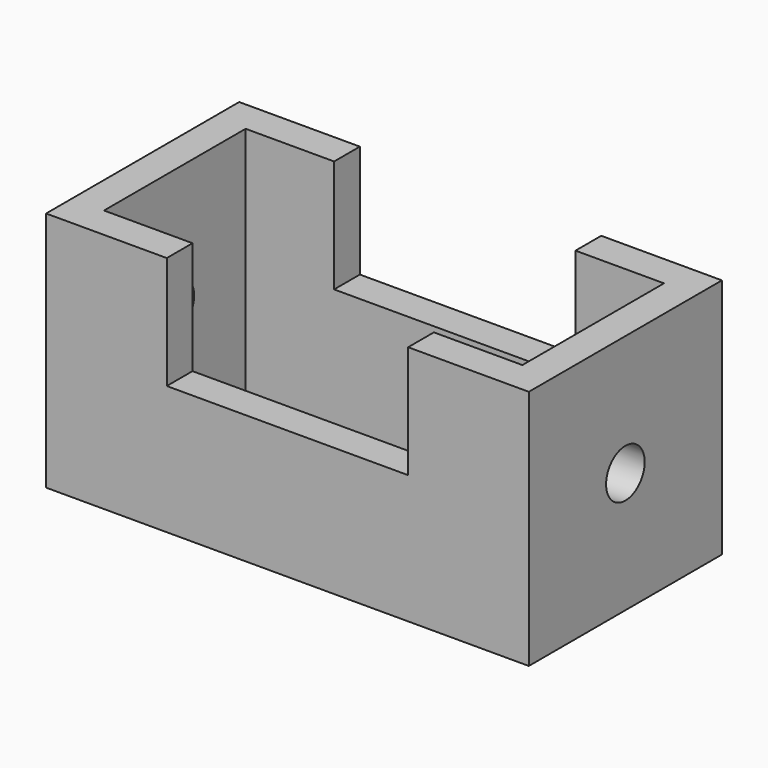
from build123d import *

# Parameters (mm, degrees)
F0_W     = 762
F0_H     = 381
F0_W_2   = 660.4
F0_H_2   = 279.4
F1_DEPTH = 381
F2_W     = 381
F2_H     = 177.8
F3_DEPTH = 1270
F4_R     = 38.1
F5_DEPTH = 1270


with BuildPart() as f1:
    # F0 (on Top) → F1 (new body)
    with BuildSketch(Plane.XY):
        Rectangle(F0_W, F0_H)
        Rectangle(F0_W_2, F0_H_2, mode=Mode.SUBTRACT)
    extrude(amount=F1_DEPTH)

    # F2 (on face) → F3 (cut)
    with BuildSketch(Plane.XZ.offset(190.5)):
        with Locations((0, 292.1)):
            Rectangle(F2_W, F2_H)
    extrude(amount=-F3_DEPTH, mode=Mode.SUBTRACT)

    # F4 (on face) → F5 (cut)
    with BuildSketch(Plane.YZ.offset(381)):
        with Locations((0, 190.5)):
            Circle(F4_R)
    extrude(amount=-F5_DEPTH, mode=Mode.SUBTRACT)


solid = f1.part
